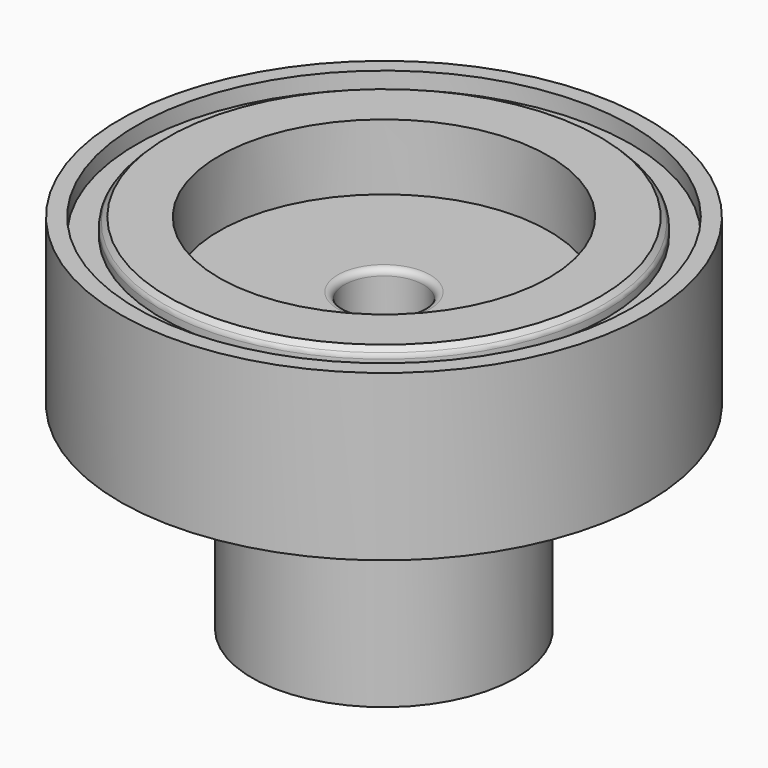
from build123d import *

# Parameters (mm, degrees)
F0_R      = 8
F1_DEPTH  = 5
F2_R      = 4
F3_DEPTH  = 6
F4_R      = 1.2
F5_DEPTH  = 9
F6_R      = 5
F7_DEPTH  = 2
F8_R      = 7.5
F8_R_2    = 6.75
F9_DEPTH  = 0.5
F10_SIZE  = 0.2
F11_R     = 0.2
F13_R     = 1.25
F14_DEPTH = 4.5


with BuildPart() as f1:
    # F0 (on Top) → F1 (new body)
    with BuildSketch(Plane.XY):
        Circle(F0_R)
    extrude(amount=F1_DEPTH)

    # F2 (on face) → F3 (join)
    with BuildSketch(Plane(origin=(0, 0, 0), x_dir=(1, 0, 0), z_dir=(0, 0, -1))):
        Circle(F2_R)
    extrude(amount=F3_DEPTH)

    # F4 (on face) → F5 (cut)
    with BuildSketch(Plane(origin=(0, 0, -6), x_dir=(1, 0, 0), z_dir=(0, 0, -1))):
        Circle(F4_R)
    extrude(amount=-F5_DEPTH, mode=Mode.SUBTRACT)

    # F6 (on face) → F7 (cut)
    with BuildSketch(Plane.XY.offset(5)):
        Circle(F6_R)
    extrude(amount=-F7_DEPTH, mode=Mode.SUBTRACT)

    # F8 (on face) → F9 (cut)
    with BuildSketch(Plane.XY.offset(5)):
        Circle(F8_R)
        Circle(F8_R_2, mode=Mode.SUBTRACT)
    extrude(amount=-F9_DEPTH, mode=Mode.SUBTRACT)

    # F10
    f10_edges = [f1.edges().sort_by_distance(p)[0] for p in [
        (-6.75, 0, 5),
    ]]
    chamfer(f10_edges, length=F10_SIZE)

    # F11
    f11_edges = [f1.edges().sort_by_distance(p)[0] for p in [
        (-6.75, 0, 4.8),
        (-1.2, 0, 3),
        (-1.2, 0, -6),
    ]]
    fillet(f11_edges, radius=F11_R)

    # F13 (on Right) → F14 (cut)
    with BuildSketch(Plane.YZ):
        with Locations((0, -3.5)):
            Circle(F13_R)
    extrude(amount=-F14_DEPTH, mode=Mode.SUBTRACT)


solid = f1.part
